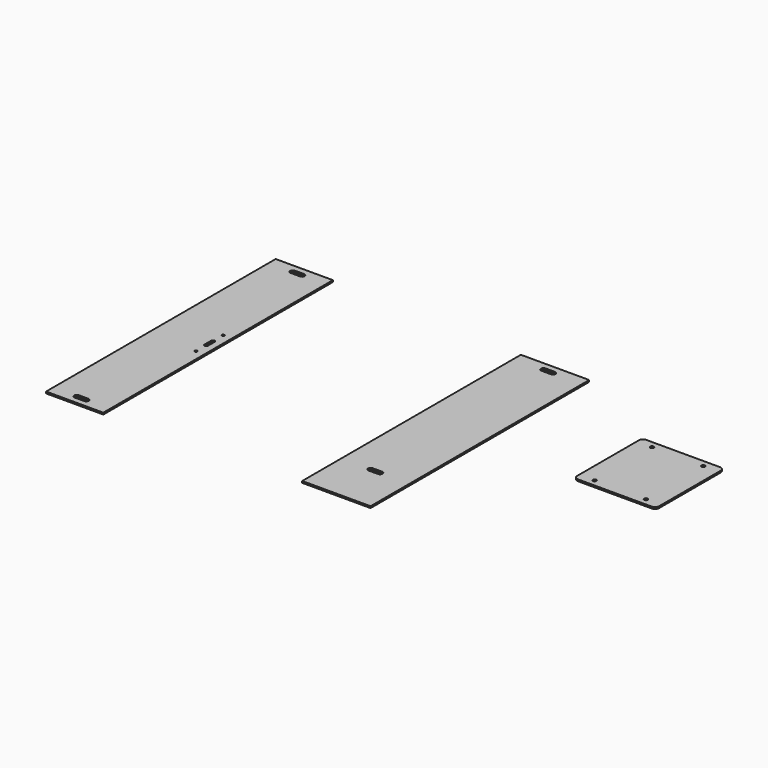
from build123d import *

# Parameters (mm, degrees)
F0_W     = 80
F0_H     = 320
F0_W_2   = 67
F0_H_2   = 336
F0_R     = 1.5
F0_W_3   = 96
F0_H_3   = 100
F0_R_2   = 2.05
F1_DEPTH = 2
F2_R     = 5


with BuildPart() as f1:
    # F0 (on Top) → F1 (new body)
    with BuildSketch(Plane.XY):
        Rectangle(F0_W, F0_H)
        with BuildLine():
            ThreePointArc((5.5, -100), (8.5, -103), (5.5, -106))
            Line((5.5, -106), (-5.5, -106))
            ThreePointArc((-5.5, -106), (-8.5, -103), (-5.5, -100))
            Line((-5.5, -100), (5.5, -100))
        make_face(mode=Mode.SUBTRACT)
        with BuildLine():
            ThreePointArc((5.5, 153), (8.5, 150), (5.5, 147))
            Line((5.5, 147), (-5.5, 147))
            ThreePointArc((-5.5, 147), (-8.5, 150), (-5.5, 153))
            Line((-5.5, 153), (5.5, 153))
        make_face(mode=Mode.SUBTRACT)
        with Locations((-300, 0)):
            Rectangle(F0_W_2, F0_H_2)
        with BuildLine():
            ThreePointArc((-294.5, -155), (-291.5, -158), (-294.5, -161))
            Line((-294.5, -161), (-305.5, -161))
            ThreePointArc((-305.5, -161), (-308.5, -158), (-305.5, -155))
            Line((-305.5, -155), (-294.5, -155))
        make_face(mode=Mode.SUBTRACT)
        with Locations((-276.5, -20)):
            Circle(F0_R, mode=Mode.SUBTRACT)
        with BuildLine():
            Line((-274.5, 5), (-274.5, -5))
            ThreePointArc((-274.5, -5), (-276.5, -7), (-278.5, -5))
            Line((-278.5, -5), (-278.5, 5))
            ThreePointArc((-278.5, 5), (-276.5, 7), (-274.5, 5))
        make_face(mode=Mode.SUBTRACT)
        with Locations((-276.5, 20)):
            Circle(F0_R, mode=Mode.SUBTRACT)
        with BuildLine():
            ThreePointArc((-294.5, 161), (-291.5, 158), (-294.5, 155))
            Line((-294.5, 155), (-305.5, 155))
            ThreePointArc((-305.5, 155), (-308.5, 158), (-305.5, 161))
            Line((-305.5, 161), (-294.5, 161))
        make_face(mode=Mode.SUBTRACT)
        with Locations((198, 50)):
            Rectangle(F0_W_3, F0_H_3)
        with Locations((168, 8)):
            Circle(F0_R_2, mode=Mode.SUBTRACT)
        with Locations((228, 8)):
            Circle(F0_R_2, mode=Mode.SUBTRACT)
        with Locations((168, 92)):
            Circle(F0_R_2, mode=Mode.SUBTRACT)
        with Locations((228, 92)):
            Circle(F0_R_2, mode=Mode.SUBTRACT)
    extrude(amount=F1_DEPTH)

    # F2
    f2_edges = [f1.edges().sort_by_distance(p)[0] for p in [
        (150, 0, 1),
        (246, 0, 1),
        (246, 100, 1),
        (150, 100, 1),
    ]]
    fillet(f2_edges, radius=F2_R)


solid = f1.part
